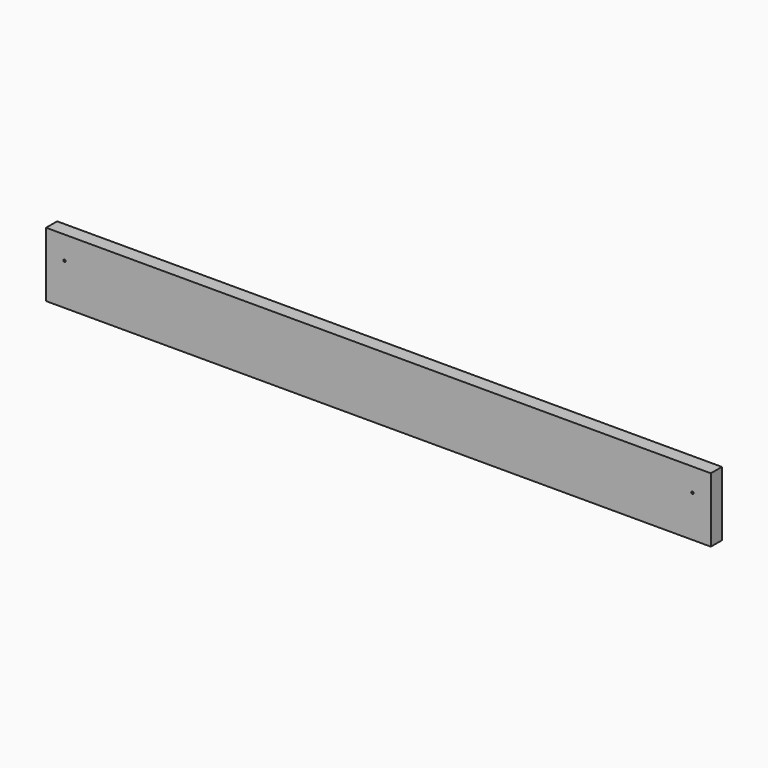
from build123d import *

# Parameters (mm, degrees)
F0_W     = 914.4
F0_H     = 88.9
F1_DEPTH = 19.05
F3_D     = 3.175
F3_DEPTH = 12.7
F3_TIP   = 0.9538662327
F5_D     = 3.175


with BuildPart() as f1:
    # F0 (on Front) → F1 (new body)
    with BuildSketch(Plane.XZ):
        with Locations((-115.452008301, 8.7267147488)):
            Rectangle(F0_W, F0_H)
    extrude(amount=F1_DEPTH)

    # F3
    with Locations(Plane(origin=(0, 0, 0), x_dir=(-1, 0, 0), z_dir=(0, 1, 0))):
        with Locations((-265.547991699, -10.3232852512), (-265.547991699, 27.7767147488), (496.452008301, -10.3232852512), (496.452008301, 27.7767147488)):
            Hole(F3_D / 2, depth=F3_DEPTH)
            with Locations((0, 0, -(F3_DEPTH + F3_TIP / 2))):  # 118° drill point
                Cone(0, F3_D / 2, F3_TIP, mode=Mode.SUBTRACT)

    # F5 (through all)
    with Locations(Plane(origin=(0, 0, 0), x_dir=(-1, 0, 0), z_dir=(0, 1, 0))):
        with Locations((-316.347991699, 21.4267147488), (547.252008301, 21.4267147488)):
            Hole(F5_D / 2)


solid = f1.part
